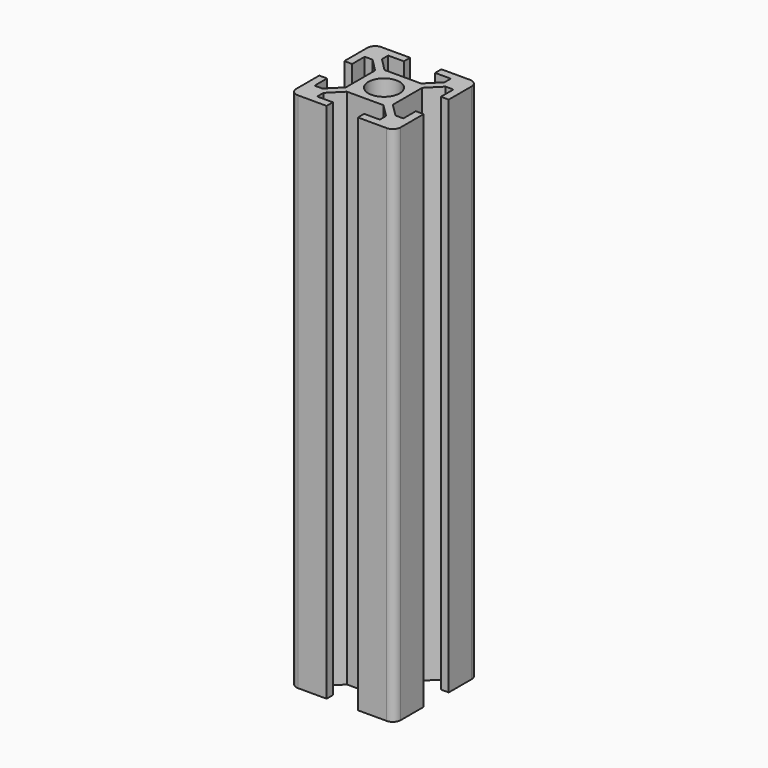
from build123d import *

# Parameters (mm, degrees)
F0_R     = 3
F1_DEPTH = 100


with BuildPart() as f1:
    # F0 (on Top) → F1 (new body)
    with BuildSketch(Plane.XY):
        with BuildLine():
            ThreePointArc((0, 1.5), (0.43934, 0.43934), (1.5, 0))
            Line((1.5, 0), (7, 0))
            Line((7, 0), (7, 1.5))
            Line((7, 1.5), (4, 1.5))
            Line((4, 1.5), (4, 3))
            Line((4, 3), (6.5, 5.5))
            Line((6.5, 5.5), (10, 5.5))
            Line((10, 5.5), (13.5, 5.5))
            Line((13.5, 5.5), (16, 3))
            Line((16, 3), (16, 1.5))
            Line((16, 1.5), (13, 1.5))
            Line((13, 1.5), (13, 0))
            Line((13, 0), (18.5, 0))
            ThreePointArc((18.5, 0), (19.56066, 0.43934), (20, 1.5))
            Line((20, 1.5), (20, 7))
            Line((20, 7), (18.5, 7))
            Line((18.5, 7), (18.5, 4))
            Line((18.5, 4), (17, 4))
            Line((17, 4), (14.5, 6.5))
            Line((14.5, 6.5), (14.5, 10))
            Line((14.5, 10), (14.5, 13.5))
            Line((14.5, 13.5), (17, 16))
            Line((17, 16), (18.5, 16))
            Line((18.5, 16), (18.5, 13))
            Line((18.5, 13), (20, 13))
            Line((20, 13), (20, 18.5))
            ThreePointArc((20, 18.5), (19.56066, 19.56066), (18.5, 20))
            Line((18.5, 20), (13, 20))
            Line((13, 20), (13, 18.5))
            Line((13, 18.5), (16, 18.5))
            Line((16, 18.5), (16, 17))
            Line((16, 17), (13.5, 14.5))
            Line((13.5, 14.5), (10, 14.5))
            Line((10, 14.5), (6.5, 14.5))
            Line((6.5, 14.5), (4, 17))
            Line((4, 17), (4, 18.5))
            Line((4, 18.5), (7, 18.5))
            Line((7, 18.5), (7, 20))
            Line((7, 20), (1.5, 20))
            ThreePointArc((1.5, 20), (0.43934, 19.56066), (0, 18.5))
            Line((0, 18.5), (0, 13))
            Line((0, 13), (1.5, 13))
            Line((1.5, 13), (1.5, 16))
            Line((1.5, 16), (3, 16))
            Line((3, 16), (5.5, 13.5))
            Line((5.5, 13.5), (5.5, 10))
            Line((5.5, 10), (5.5, 6.5))
            Line((5.5, 6.5), (3, 4))
            Line((3, 4), (1.5, 4))
            Line((1.5, 4), (1.5, 7))
            Line((1.5, 7), (0, 7))
            Line((0, 7), (0, 1.5))
        make_face()
        with Locations((10, 10)):
            Circle(F0_R, mode=Mode.SUBTRACT)
    extrude(amount=F1_DEPTH)


solid = f1.part
